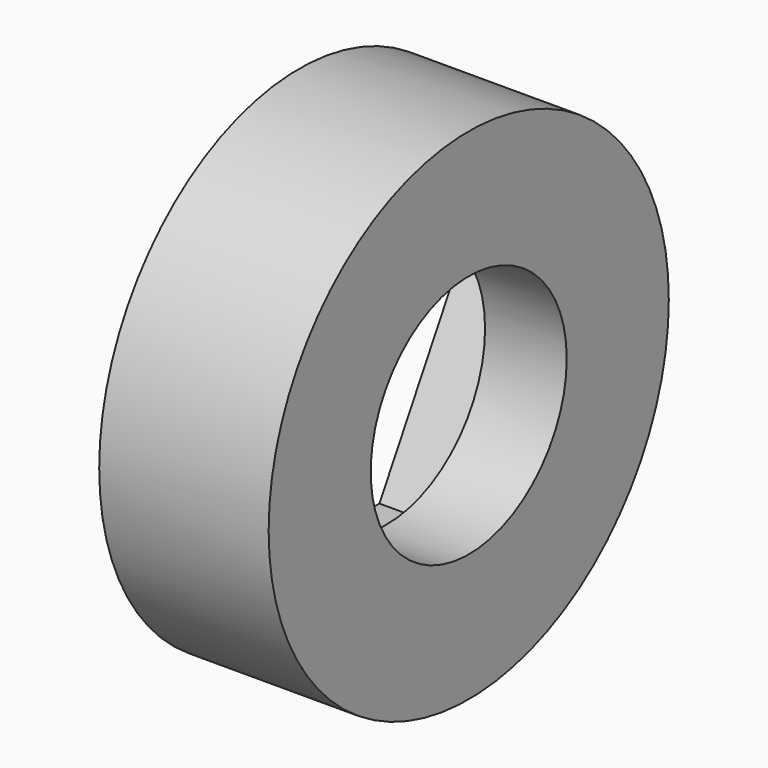
from build123d import *

# Parameters (mm, degrees)
F0_R     = 12.25
F1_DEPTH = 8.3
F2_R     = 6
F3_DEPTH = 8.301
F5_DEPTH = 4.3


with BuildPart() as f1:
    # F0 (on Right) → F1 (new body)
    with BuildSketch(Plane.YZ):
        Circle(F0_R)
    extrude(amount=F1_DEPTH)

    # F2 (on face) → F3 (cut, through all)
    with BuildSketch(Plane.YZ.offset(8.3)):
        Circle(F2_R)
    extrude(amount=-F3_DEPTH, mode=Mode.SUBTRACT)

    # F4 (on face) → F5 (cut)
    with BuildSketch(Plane(origin=(0, 0, 0), x_dir=(0, -1, 0), z_dir=(-1, 0, 0))):
        Polygon((4.907477, 8.5), (-4.907477, 8.5), (-9.814955, 0), (-4.907477, -8.5), (4.907477, -8.5), (9.814955, 0), align=None)
    extrude(amount=-F5_DEPTH, mode=Mode.SUBTRACT)


solid = f1.part
